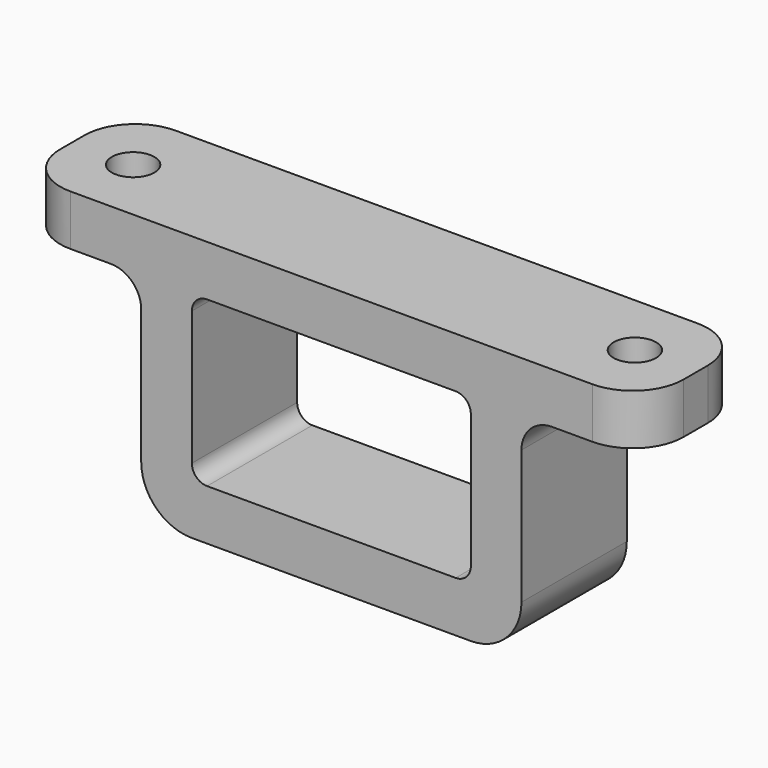
from build123d import *

# Parameters (mm, degrees)
F0_W     = 37.55
F0_H     = 26.23
F0_W_2   = 27.55
F0_H_2   = 16.23
F1_DEPTH = 13
F2_W     = 61.55
F2_H     = 13
F2_R     = 2.1
F3_DEPTH = 5
F4_R     = 3
F5_R     = 1.5
F6_R     = 5
F7_R     = 5


with BuildPart() as f1:
    # F0 (on Front) → F1 (new body)
    with BuildSketch(Plane.XZ):
        Rectangle(F0_W, F0_H)
        Rectangle(F0_W_2, F0_H_2, mode=Mode.SUBTRACT)
    extrude(amount=F1_DEPTH)

    # F2 (on face) → F3 (join)
    with BuildSketch(Plane.XY.offset(13.115)):
        with Locations((0, -6.5)):
            Rectangle(F2_W, F2_H)
        with Locations((-24.775, -6.5)):
            Circle(F2_R, mode=Mode.SUBTRACT)
        with Locations((24.775, -6.5)):
            Circle(F2_R, mode=Mode.SUBTRACT)
    extrude(amount=-F3_DEPTH)

    # F4
    f4_edges = [f1.edges().sort_by_distance(p)[0] for p in [
        (-18.775, -6.5, 8.115),
        (18.775, -6.5, 8.115),
    ]]
    fillet(f4_edges, radius=F4_R)

    # F5
    f5_edges = [f1.edges().sort_by_distance(p)[0] for p in [
        (-13.775, -6.5, 8.115),
        (13.775, -6.5, 8.115),
        (13.775, -6.5, -8.115),
        (-13.775, -6.5, -8.115),
    ]]
    fillet(f5_edges, radius=F5_R)

    # F6
    f6_edges = [f1.edges().sort_by_distance(p)[0] for p in [
        (18.775, -6.5, -13.115),
        (-18.775, -6.5, -13.115),
    ]]
    fillet(f6_edges, radius=F6_R)

    # F7
    f7_edges = [f1.edges().sort_by_distance(p)[0] for p in [
        (30.775, -13, 10.615),
        (30.775, 0, 10.615),
        (-30.775, -13, 10.615),
        (-30.775, 0, 10.615),
    ]]
    fillet(f7_edges, radius=F7_R)


solid = f1.part
